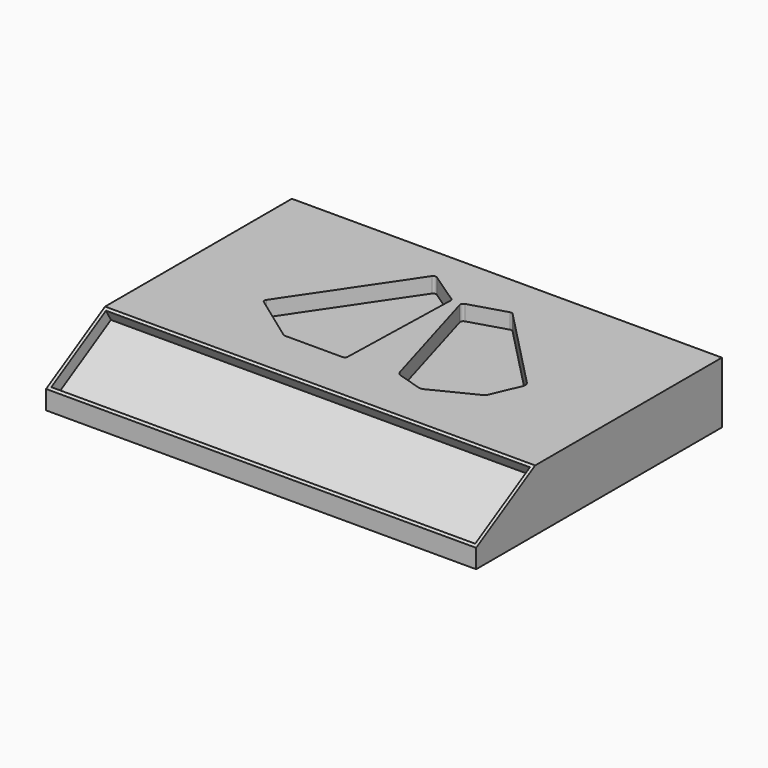
from build123d import *

# Parameters (mm, degrees)
F0_W     = 70
F0_H     = 50
F1_DEPTH = 10
F2_SIZE2 = 6.9282032303
F2_SIZE  = 12
F4_DEPTH = 2.5
F5_W     = 69
F5_H     = 12.8564064606
F6_DEPTH = 2


with BuildPart() as f1:
    # F0 (on Top) → F1 (new body)
    with BuildSketch(Plane.XY):
        with Locations((5.1442100421, 5.2647431195)):
            Rectangle(F0_W, F0_H)
    extrude(amount=F1_DEPTH)

    # F2
    f2_edges = [f1.edges().sort_by_distance(p)[0] for p in [
        (5.14421, -19.735257, 10),
    ]]
    f2_side = f1.faces().sort_by_distance((5.14421, 5.264743, 10))[0]
    chamfer(f2_edges, length=F2_SIZE, length2=F2_SIZE2, reference=f2_side)

    # F3 (on face) → F4 (cut)
    with BuildSketch(Plane.XY.offset(10)):
        with BuildLine():
            ThreePointArc((-1.969263475, 24.8949940758), (-2.3442214304, 24.9714998994), (-2.66345453, 24.7604623731))
            Line((-2.66345453, 24.7604623731), (-14.9844594162, 6.5159764986))
            ThreePointArc((-14.9844594162, 6.5159764986), (-15.0623736344, 6.1485983412), (-14.8625708975, 5.830610602))
            Line((-14.8625708975, 5.830610602), (-7.4070282086, 0.4536706786))
            ThreePointArc((-7.4070282086, 0.4536706786), (-7.1294320931, 0.3131464505), (-6.8220824883, 0.2647431195))
            Line((-6.8220824883, 0.2647431195), (2.3681526499, 0.2647431195))
            ThreePointArc((2.3681526499, 0.2647431195), (2.7169388104, 0.4064859293), (2.8679732491, 0.7513502623))
            Line((2.8679732491, 0.7513502623), (3.410086475, 20.9829822828))
            ThreePointArc((3.410086475, 20.9829822828), (3.3549084959, 21.2250516372), (3.190095552, 21.4107365189))
            Line((3.190095552, 21.4107365189), (-1.969263475, 24.8949940758))
        make_face()
        with BuildLine():
            ThreePointArc((11.8286107336, 23.0692653505), (11.5949478981, 23.2051710927), (11.3246932103, 23.1995947829))
            Line((11.3246932103, 23.1995947829), (5.3912275031, 21.4008405723))
            ThreePointArc((5.3912275031, 21.4008405723), (5.0965360899, 21.1602954599), (5.0563803582, 20.7820197704))
            Line((5.0563803582, 20.7820197704), (10.6604367749, 1.6164084942))
            ThreePointArc((10.6604367749, 1.6164084942), (10.9073063674, 1.195834103), (11.3237327707, 0.9420301136))
            Line((11.3237327707, 0.9420301136), (15.2026586897, -0.2622863149))
            ThreePointArc((15.2026586897, -0.2622863149), (15.579956303, -0.3039895341), (15.9456136146, -0.2020710473))
            Line((15.9456136146, -0.2020710473), (22.8627626989, 3.249037371))
            ThreePointArc((22.8627626989, 3.249037371), (23.1443824723, 3.4583377212), (23.3363661018, 3.7520358986))
            Line((23.3363661018, 3.7520358986), (25.2827025924, 8.3223486347))
            ThreePointArc((25.2827025924, 8.3223486347), (25.3458081315, 8.896965521), (25.0803776052, 9.4104959591))
            Line((25.0803776052, 9.4104959591), (11.8286107336, 23.0692653505))
        make_face()
    extrude(amount=-F4_DEPTH, mode=Mode.SUBTRACT)

    # F5 (on face) → F6 (cut)
    with BuildSketch(Plane(origin=(0, -6.2639412391, 10.8494644817), x_dir=(1, 0, 0), z_dir=(0, -0.5, 0.8660254038))):
        with Locations((5.1442100421, -8.6271321936)):
            Rectangle(F5_W, F5_H)
    extrude(amount=-F6_DEPTH, mode=Mode.SUBTRACT)


solid = f1.part
